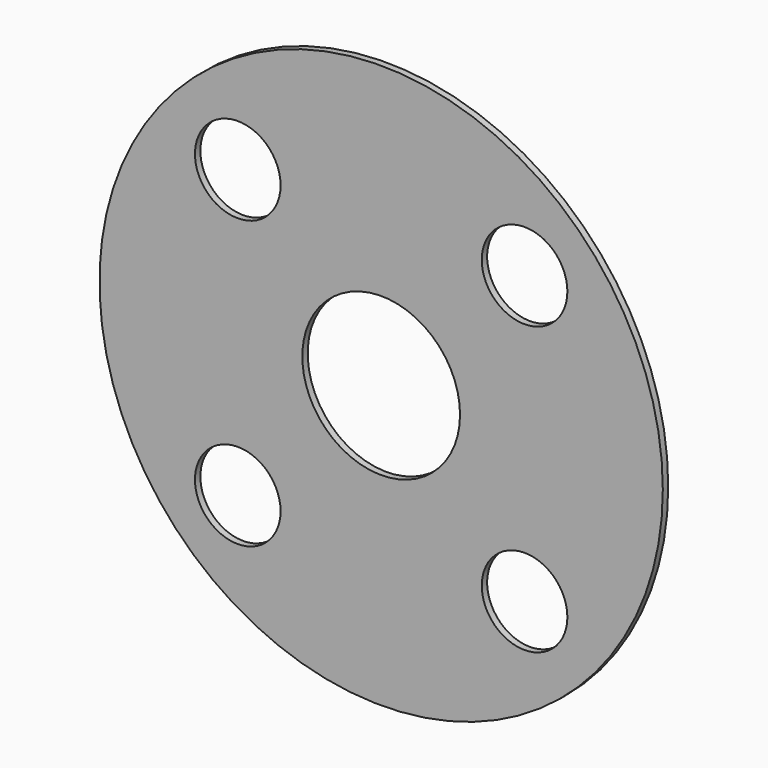
from build123d import *

# Parameters (mm, degrees)
F0_R     = 62.5
F0_R_2   = 9.5
F0_R_3   = 17.5
F1_DEPTH = 1.5


with BuildPart() as f1:
    # F0 (on Front) → F1 (new body)
    with BuildSketch(Plane.XZ):
        Circle(F0_R)
        with Locations((-31.819805, -31.819805)):
            Circle(F0_R_2, mode=Mode.SUBTRACT)
        with Locations((31.819805, -31.819805)):
            Circle(F0_R_2, mode=Mode.SUBTRACT)
        with Locations((-31.819805, 31.819805)):
            Circle(F0_R_2, mode=Mode.SUBTRACT)
        Circle(F0_R_3, mode=Mode.SUBTRACT)
        with Locations((31.819805, 31.819805)):
            Circle(F0_R_2, mode=Mode.SUBTRACT)
    extrude(amount=F1_DEPTH)


solid = f1.part
